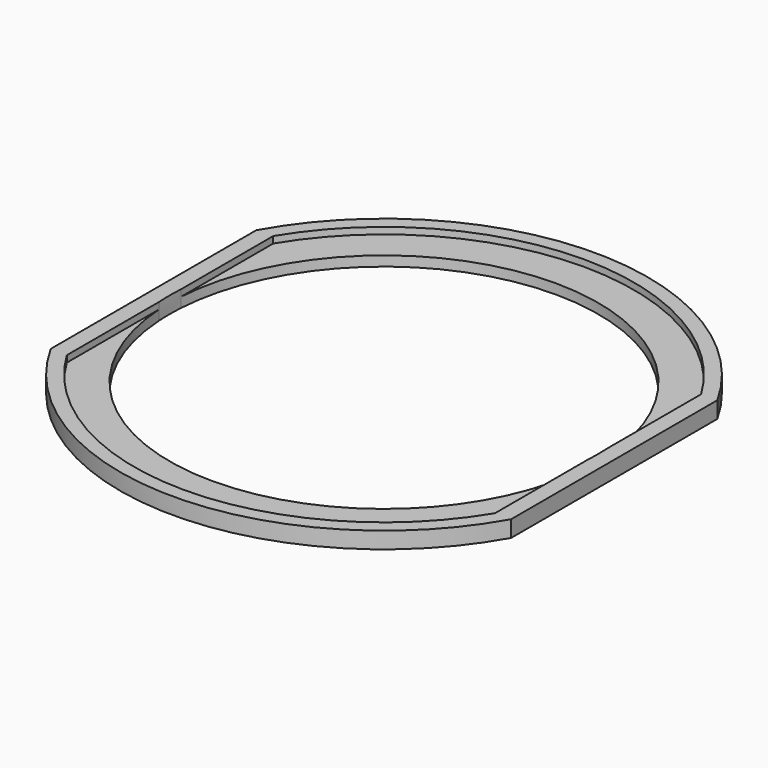
from build123d import *

# Parameters (mm, degrees)
F1_DEPTH = 5
F2_DEPTH = 3


with BuildPart() as f1:
    # F0 (on Top) → F1 (new body)
    with BuildSketch(Plane.XY):
        with BuildLine():
            Line((64.8992869691, 39.065906503), (69.8129998574, 39.065906503))
            ThreePointArc((69.8129998574, 39.065906503), (-0.0588261188, 79.9999783718), (-69.8703767369, 38.9631935889))
            Line((-69.8703767369, 38.9631935889), (-64.9588376934, 38.9668051747))
            ThreePointArc((-64.9588376934, 38.9668051747), (-0.0578086543, 75.7499779416), (64.8992869691, 39.065906503))
        make_face()
        with BuildLine():
            ThreePointArc((-64.9588376934, 38.9668051747), (-67.5890599234, 34.2020683392), (-69.8703767369, 29.2607750179))
            Line((-69.8703767369, 29.2607750179), (-69.8703767369, -29.2607750179))
            ThreePointArc((-69.8703767369, -29.2607750179), (-67.5890599234, -34.2020683392), (-64.9588376934, -38.9668051747))
            Line((-64.9588376934, -38.9668051747), (-64.8703767369, -38.9668702224))
            Line((-64.8703767369, -38.9668702224), (-64.8703767369, -4.1029528413))
            ThreePointArc((-64.8703767369, -4.1029528413), (-65, 0), (-64.8703767369, 4.1029528413))
            Line((-64.8703767369, 4.1029528413), (-64.8703767369, 38.9668702224))
            Line((-64.8703767369, 38.9668702224), (-64.9588376934, 38.9668051747))
        make_face()
        with BuildLine():
            Line((-64.9588376934, 38.9668051747), (-69.8703767369, 38.9631935889))
            Line((-69.8703767369, 38.9631935889), (-69.8703767369, 29.2607750179))
            ThreePointArc((-69.8703767369, 29.2607750179), (-67.5890599234, 34.2020683392), (-64.9588376934, 38.9668051747))
        make_face()
        with BuildLine():
            Line((-69.8703767369, -29.2607750179), (-69.8703767369, -38.9631935889))
            Line((-69.8703767369, -38.9631935889), (-64.9588376934, -38.9668051747))
            ThreePointArc((-64.9588376934, -38.9668051747), (-67.5890599234, -34.2020683392), (-69.8703767369, -29.2607750179))
        make_face()
        with BuildLine():
            ThreePointArc((-69.8703767369, -38.9631935889), (-0.0588261188, -79.9999783718), (69.8129998574, -39.065906503))
            Line((69.8129998574, -39.065906503), (64.8992869691, -39.065906503))
            ThreePointArc((64.8992869691, -39.065906503), (-0.0578086543, -75.7499779416), (-64.9588376934, -38.9668051747))
            Line((-64.9588376934, -38.9668051747), (-69.8703767369, -38.9631935889))
        make_face()
        with BuildLine():
            Line((69.8129998574, -29.397407214), (69.8129998574, 29.397407214))
            ThreePointArc((69.8129998574, 29.397407214), (67.5294011904, 34.3197097142), (64.8992869691, 39.065906503))
            Line((64.8992869691, 39.065906503), (64.8992869691, 3.6169809102))
            ThreePointArc((64.8992869691, 3.6169809102), (64.9748168639, 1.8091913953), (65, 0))
            ThreePointArc((65, 0), (64.9748168639, -1.8091913953), (64.8992869691, -3.6169809102))
            Line((64.8992869691, -3.6169809102), (64.8992869691, -39.065906503))
            ThreePointArc((64.8992869691, -39.065906503), (67.5294011904, -34.3197097142), (69.8129998574, -29.397407214))
        make_face()
        with BuildLine():
            Line((64.8992869691, -39.065906503), (69.8129998574, -39.065906503))
            Line((69.8129998574, -39.065906503), (69.8129998574, -29.397407214))
            ThreePointArc((69.8129998574, -29.397407214), (67.5294011904, -34.3197097142), (64.8992869691, -39.065906503))
        make_face()
        with BuildLine():
            Line((69.8129998574, 29.397407214), (69.8129998574, 39.065906503))
            Line((69.8129998574, 39.065906503), (64.8992869691, 39.065906503))
            ThreePointArc((64.8992869691, 39.065906503), (67.5294011904, 34.3197097142), (69.8129998574, 29.397407214))
        make_face()
    extrude(amount=F1_DEPTH)

    # F0 (on Top) → F2 (join)
    with BuildSketch(Plane.XY):
        with BuildLine():
            ThreePointArc((-64.9588376934, -38.9668051747), (-0.0578086543, -75.7499779416), (64.8992869691, -39.065906503))
            Line((64.8992869691, -39.065906503), (64.8992869691, -3.6169809102))
            ThreePointArc((64.8992869691, -3.6169809102), (0.2434155497, -64.9995442205), (-64.8703767369, -4.1029528413))
            Line((-64.8703767369, -4.1029528413), (-64.8703767369, -38.9668702224))
            Line((-64.8703767369, -38.9668702224), (-64.9588376934, -38.9668051747))
        make_face()
        with BuildLine():
            Line((64.8992869691, 3.6169809102), (64.8992869691, 39.065906503))
            ThreePointArc((64.8992869691, 39.065906503), (-0.0578086543, 75.7499779416), (-64.9588376934, 38.9668051747))
            Line((-64.9588376934, 38.9668051747), (-64.8703767369, 38.9668702224))
            Line((-64.8703767369, 38.9668702224), (-64.8703767369, 4.1029528413))
            ThreePointArc((-64.8703767369, 4.1029528413), (0.2434155497, 64.9995442205), (64.8992869691, 3.6169809102))
        make_face()
    extrude(amount=F2_DEPTH)


solid = f1.part
